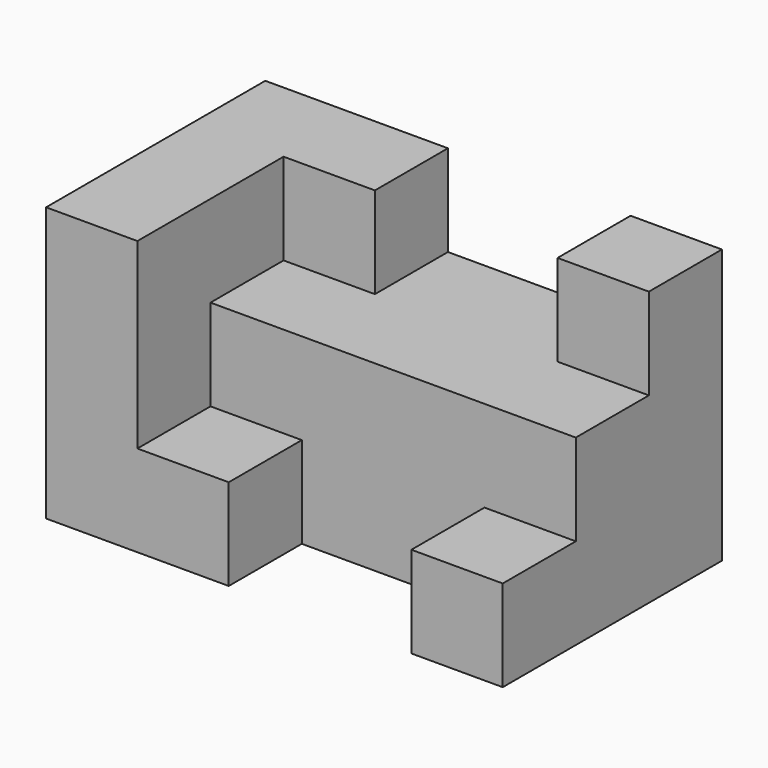
from build123d import *

# Parameters (mm, degrees)
F0_W     = 127
F0_H     = 76.2
F1_DEPTH = 76.2
F2_W     = 50.8
F2_H     = 25.4
F3_DEPTH = 86.868
F2_W_2   = 25.4
F4_DEPTH = 50.8
F5_DEPTH = 25.4


with BuildPart() as f1:
    # F0 (on Front) → F1 (new body)
    with BuildSketch(Plane.XZ):
        with Locations((15.835898, -27.176369)):
            Rectangle(F0_W, F0_H)
    extrude(amount=F1_DEPTH)

    # F2 (on face) → F3 (cut)
    with BuildSketch(Plane.XY.offset(10.923631)):
        with Locations((28.535898, -63.5)):
            Rectangle(F2_W, F2_H)
    extrude(amount=-F3_DEPTH, mode=Mode.SUBTRACT)

    # F2 (on face) → F4 (cut)
    with BuildSketch(Plane.XY.offset(10.923631)):
        with Locations((-9.564102, -63.5)):
            Rectangle(F2_W_2, F2_H)
        with Locations((66.635898, -63.5)):
            Rectangle(F2_W_2, F2_H)
    extrude(amount=-F4_DEPTH, mode=Mode.SUBTRACT)

    # F2 (on face) → F5 (cut)
    with BuildSketch(Plane.XY.offset(10.923631)):
        Polygon((53.935898, -25.4), (53.935898, 0), (3.135898, 0), (3.135898, -25.38896), (-22.264102, -25.38896), (-22.264102, -50.8), (3.135898, -50.8), (53.935898, -50.8), (79.335898, -50.8), (79.335898, -25.4), align=None)
    extrude(amount=-F5_DEPTH, mode=Mode.SUBTRACT)


solid = f1.part
